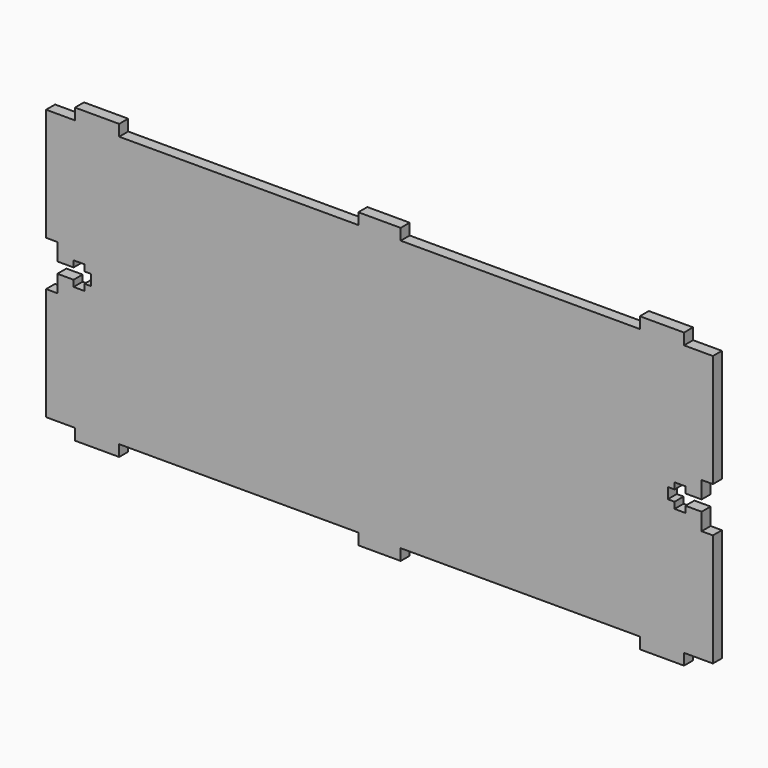
from build123d import *

# Parameters (mm, degrees)
F0_W     = 187.706
F0_H     = 82.55
F1_DEPTH = 3.175
F2_W     = 8.128
F2_H     = 3.175
F2_W_2   = 67.31
F3_DEPTH = 3.175


with BuildPart() as f1:
    # F0 (on Front) → F1 (new body)
    with BuildSketch(Plane.XZ):
        Rectangle(F0_W, F0_H)
    extrude(amount=F1_DEPTH)

    # F2 (on face) → F3 (cut)
    with BuildSketch(Plane.XZ.offset(3.175)):
        with Locations((-89.789, 39.6875)):
            Rectangle(F2_W, F2_H)
        with Locations((-39.624, 39.6875)):
            Rectangle(F2_W_2, F2_H)
        with Locations((39.624, 39.6875)):
            Rectangle(F2_W_2, F2_H)
        with Locations((89.789, 39.6875)):
            Rectangle(F2_W, F2_H)
        with Locations((-39.624, -39.6875)):
            Rectangle(F2_W_2, F2_H)
        with Locations((-89.789, -39.6875)):
            Rectangle(F2_W, F2_H)
        with Locations((39.624, -39.6875)):
            Rectangle(F2_W_2, F2_H)
        with Locations((89.789, -39.6875)):
            Rectangle(F2_W, F2_H)
        Polygon((81.153, 1.524), (81.153, 0), (93.853, 0), (93.853, 6.35), (90.678, 6.35), (90.678, 1.524), (86.106, 1.524), (86.106, 3.302), (83.058, 3.302), (83.058, 1.524), align=None)
        Polygon((93.853, 0), (81.153, 0), (81.153, -1.524), (83.058, -1.524), (83.058, -3.302), (86.106, -3.302), (86.106, -1.524), (90.678, -1.524), (90.678, -6.35), (93.853, -6.35), align=None)
        Polygon((-90.678, 6.35), (-93.853, 6.35), (-93.853, 0), (-81.153, 0), (-81.153, 1.524), (-83.058, 1.524), (-83.058, 3.302), (-86.106, 3.302), (-86.106, 1.524), (-90.678, 1.524), align=None)
        Polygon((-81.153, 0), (-93.853, 0), (-93.853, -6.35), (-90.678, -6.35), (-90.678, -1.524), (-86.106, -1.524), (-86.106, -3.302), (-83.058, -3.302), (-83.058, -1.524), (-81.153, -1.524), align=None)
    extrude(amount=-F3_DEPTH, mode=Mode.SUBTRACT)


solid = f1.part
